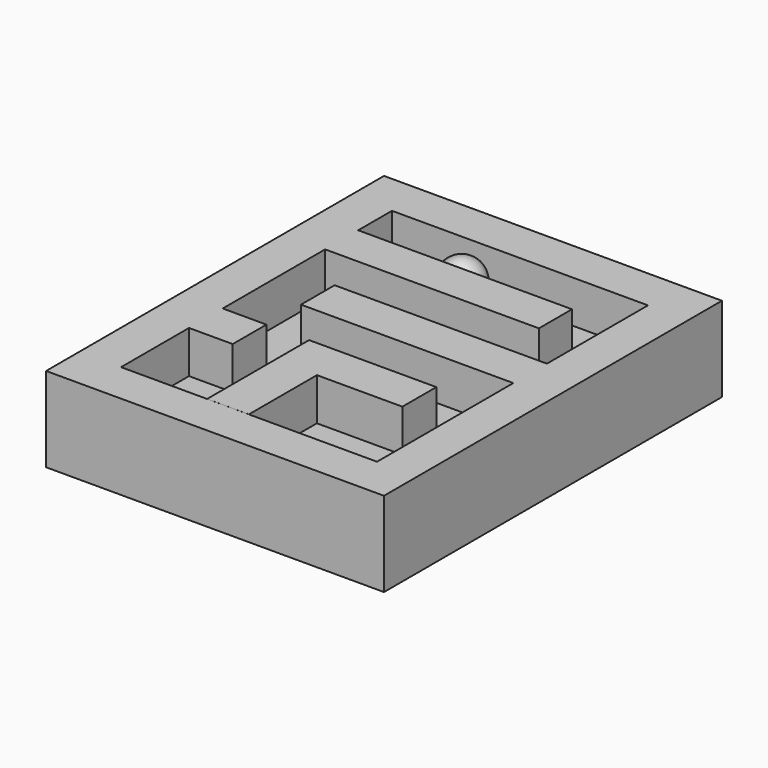
from build123d import *

# Parameters (mm, degrees)
PAD_DEPTH       = 20
SKETCH001_W     = 60.381353
SKETCH001_H     = 79.872879
POCKET_DEPTH    = 10
SKETCH002_W     = 50.635599
SKETCH002_H     = 9.745766
PAD001_DEPTH    = 10
SKETCH003_W     = 50.387052
SKETCH003_H     = 9.907728
PAD002_DEPTH    = 10
SKETCH004_W     = 10.412415
SKETCH004_H     = 9.944111
PAD003_DEPTH    = 10
PAD004_DEPTH    = 10
SKETCH006_W     = 10.014166
SKETCH006_H     = 10.027307
POCKET001_DEPTH = 10.001


with BuildPart() as body:
    # Sketch → Pad (new body)
    with BuildSketch(Plane.XY):
        Polygon((0, 49.781082), (-40.133099, 49.781082), (-40.133099, -49.846046), (39.568607, -49.846046), (39.568607, 49.781082), align=None)
    extrude(amount=PAD_DEPTH)

    # Sketch001 (on Face7 of Pad) → Pocket (cut)
    with BuildSketch(Plane.XY.offset(20)):
        with Locations((-0.105932, -0.105935)):
            Rectangle(SKETCH001_W, SKETCH001_H)
    extrude(amount=-POCKET_DEPTH, mode=Mode.SUBTRACT)

    # Sketch002 (on Face12 of Pocket) → Pad001 (join)
    with BuildSketch(Plane.XY.offset(10)):
        with Locations((-5.190672, 25)):
            Rectangle(SKETCH002_W, SKETCH002_H)
    extrude(amount=PAD001_DEPTH)

    # Sketch003 (on Face15 of Pad001) → Pad002 (join)
    with BuildSketch(Plane.XY.offset(10)):
        with Locations((5.195203, 5.090434)):
            Rectangle(SKETCH003_W, SKETCH003_H)
    extrude(amount=PAD002_DEPTH)

    # Sketch004 (on Face17 of Pad002) → Pad003 (join)
    with BuildSketch(Plane.XY.offset(10)):
        with Locations((-25.193618, -15.03396)):
            Rectangle(SKETCH004_W, SKETCH004_H)
    extrude(amount=PAD003_DEPTH)

    # Sketch005 (on Face19 of Pad003) → Pad004 (join)
    with BuildSketch(Plane.XY.offset(10)):
        Polygon((-9.998922, -40.03088), (-9.998922, -9.9767), (20.014215, -9.9767), (20.014215, -19.984793), (-0.144092, -19.984793), (-0.144092, -40.03088), align=None)
    extrude(amount=PAD004_DEPTH)

    # Sketch006 (on Face19 of Pad004) → Pocket001 (cut, through all)
    with BuildSketch(Plane.XY.offset(10)):
        with Locations((5.007083, -35.001143)):
            Rectangle(SKETCH006_W, SKETCH006_H)
    extrude(amount=-POCKET001_DEPTH, mode=Mode.SUBTRACT)


with BuildPart() as esfera:
    # Sphere → Sphere (revolve)
    with BuildSketch(Plane(origin=(-10, 35, 14), x_dir=(1, 0, 0), z_dir=(0, -1, 0))):
        with BuildLine():
            ThreePointArc((0, -5), (5, 0), (0, 5))
            Line((0, 5), (0, -5))
        make_face()
    revolve(axis=Axis((-10, 35, 14), (0, 0, 1)))


solid = Compound([body.part, esfera.part])
